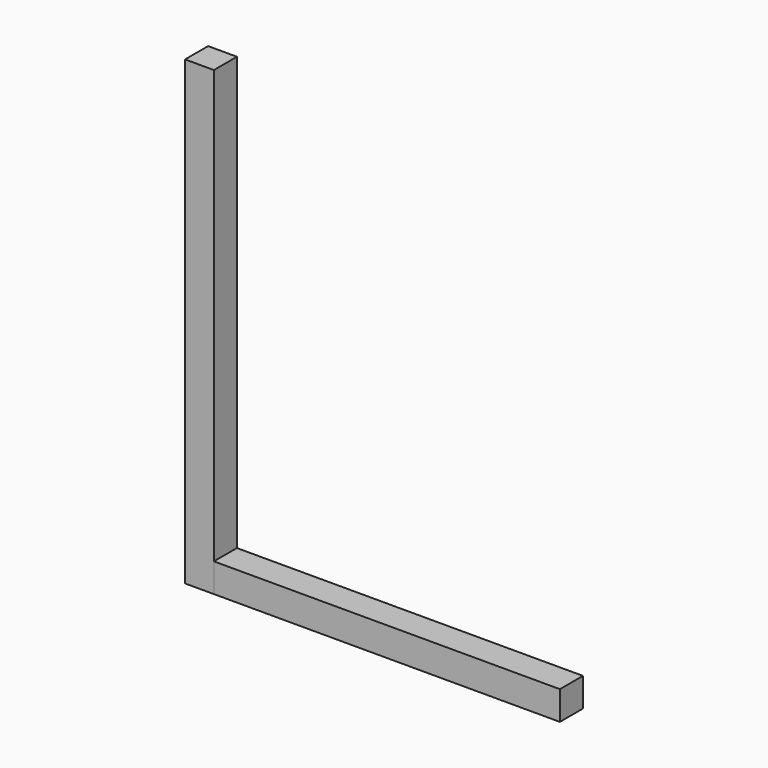
from build123d import *

# Parameters (mm, degrees)
F0_W     = 15
F0_H     = 15
F3_DEPTH = 240
F1_DEPTH = 180
F2_ANGLE = -90


with BuildPart() as f3:
    # F0 (on Top) → F3 (new body)
    with BuildSketch(Plane.XY):
        Rectangle(F0_W, F0_H)
    extrude(amount=F3_DEPTH)


with BuildPart() as f1:
    # F0 (on Top) → F1 (new body)
    with BuildSketch(Plane.XY):
        Rectangle(F0_W, F0_H)
    extrude(amount=F1_DEPTH)


with BuildPart() as f1_1:
    # F2: moved
    add(f1.part.rotate(Axis((7.5, 0, 0), (0, -1, 0)), F2_ANGLE))


solid = Compound([f3.part, f1_1.part])
